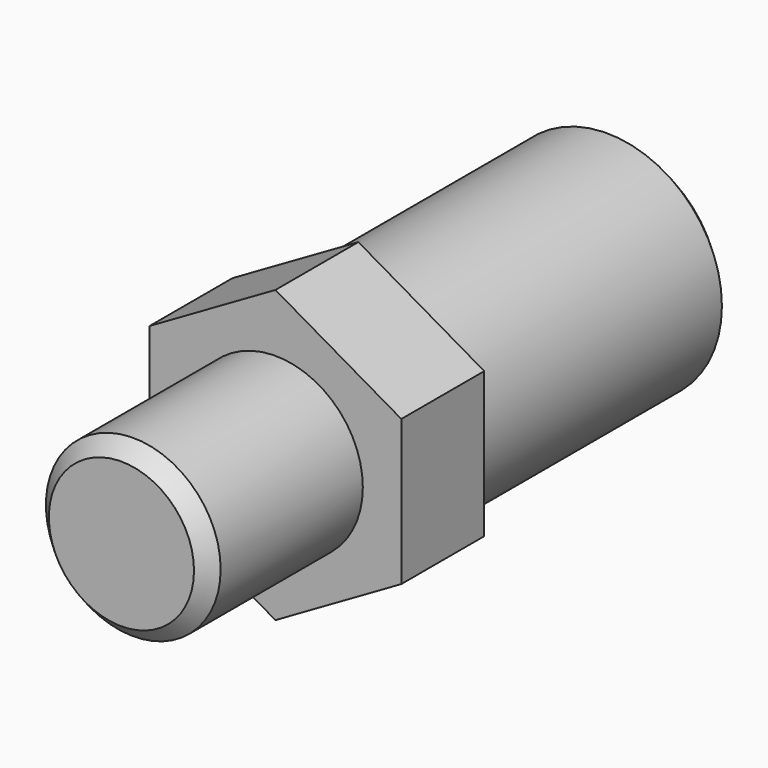
from build123d import *

# Parameters (mm, degrees)
F0_R     = 7.75
F1_DEPTH = 22
F3_DEPTH = 7
F4_R     = 5.9
F5_DEPTH = 13
F6_SIZE  = 1


with BuildPart() as f1:
    # F0 (on Front) → F1 (new body)
    with BuildSketch(Plane.XZ):
        Circle(F0_R)
    extrude(amount=F1_DEPTH)

    # F2 (on face) → F3 (join)
    with BuildSketch(Plane.XZ.offset(22)):
        Polygon((8.5, -4.907477), (8.5, 4.907477), (0, 9.814955), (-8.5, 4.907477), (-8.5, -4.907477), (0, -9.814955), align=None)
    extrude(amount=F3_DEPTH)

    # F4 (on face) → F5 (join)
    with BuildSketch(Plane.XZ.offset(29)):
        Circle(F4_R)
    extrude(amount=F5_DEPTH)

    # F6
    f6_edges = [f1.edges().sort_by_distance(p)[0] for p in [
        (-5.9, -42, 0),
        (-7.75, 0, 0),
    ]]
    chamfer(f6_edges, length=F6_SIZE)


solid = f1.part
